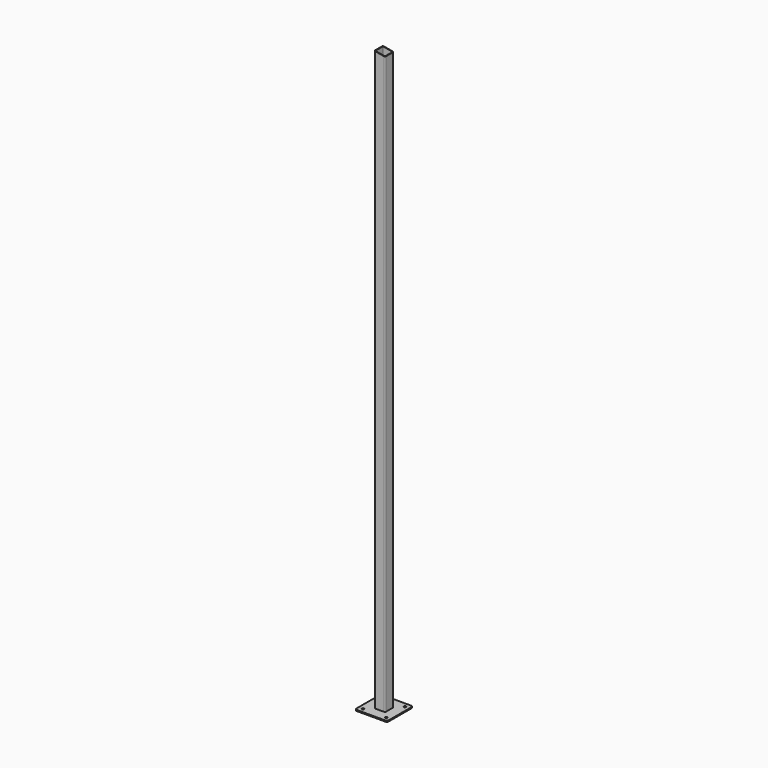
from build123d import *

# Parameters (mm, degrees)
F0_R     = 6
F1_DEPTH = 6
F3_DEPTH = 3240
F5_DEPTH = 120.001


with BuildPart() as f1:
    # F0 (on Top) → F1 (new body)
    with BuildSketch(Plane.XY):
        with BuildLine():
            ThreePointArc((90, 80), (87.071068, 87.071068), (80, 90))
            Line((80, 90), (-80, 90))
            ThreePointArc((-80, 90), (-87.071068, 87.071068), (-90, 80))
            Line((-90, 80), (-90, -80))
            ThreePointArc((-90, -80), (-87.071068, -87.071068), (-80, -90))
            Line((-80, -90), (80, -90))
            ThreePointArc((80, -90), (87.071068, -87.071068), (90, -80))
            Line((90, -80), (90, 80))
        make_face()
        with Locations((-65, -65)):
            Circle(F0_R, mode=Mode.SUBTRACT)
        with Locations((65, -65)):
            Circle(F0_R, mode=Mode.SUBTRACT)
        with Locations((-65, 65)):
            Circle(F0_R, mode=Mode.SUBTRACT)
        with Locations((65, 65)):
            Circle(F0_R, mode=Mode.SUBTRACT)
    extrude(amount=F1_DEPTH)

    # F2 (on face) → F3 (join)
    with BuildSketch(Plane.XY.offset(6)):
        with BuildLine():
            Line((-25, -30), (25, -30))
            ThreePointArc((25, -30), (28.535534, -28.535534), (30, -25))
            Line((30, -25), (30, 25))
            ThreePointArc((30, 25), (28.535534, 28.535534), (25, 30))
            Line((25, 30), (-25, 30))
            ThreePointArc((-25, 30), (-28.535534, 28.535534), (-30, 25))
            Line((-30, 25), (-30, -25))
            ThreePointArc((-30, -25), (-28.535534, -28.535534), (-25, -30))
        make_face()
        with BuildLine():
            ThreePointArc((25, 27), (26.414214, 26.414214), (27, 25))
            Line((27, 25), (27, -25))
            ThreePointArc((27, -25), (26.414214, -26.414214), (25, -27))
            Line((25, -27), (-25, -27))
            ThreePointArc((-25, -27), (-26.414214, -26.414214), (-27, -25))
            Line((-27, -25), (-27, 25))
            ThreePointArc((-27, 25), (-26.414214, 26.414214), (-25, 27))
            Line((-25, 27), (25, 27))
        make_face(mode=Mode.SUBTRACT)
    extrude(amount=F3_DEPTH)

    # F4 (on face) → F5 (cut, through all)
    with BuildSketch(Plane.XZ.offset(30)):
        Polygon((31.369732, 3246), (-30.02377, 3246), (31.369732, 3235.174669), align=None)
    extrude(amount=-F5_DEPTH, mode=Mode.SUBTRACT)


solid = f1.part
